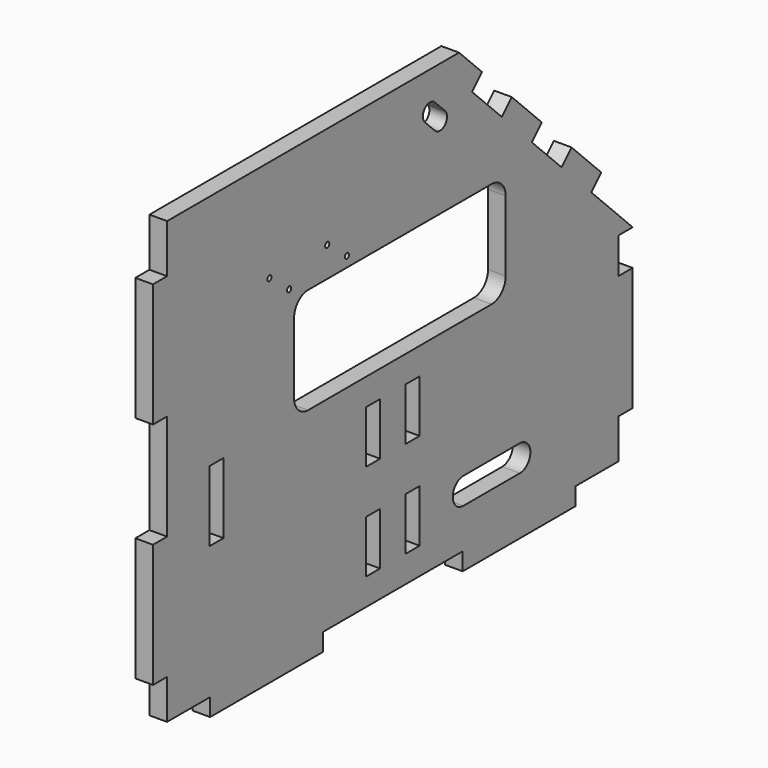
from build123d import *

# Parameters (mm, degrees)
SKETCH_W     = 10
SKETCH_H     = 40
SKETCH_H_2   = 29.8
PAD_DEPTH    = 10
SKETCH001_R  = 1.5
POCKET_DEPTH = 10.001


with BuildPart() as part:
    # Sketch → Pad (new body)
    with BuildSketch(Plane.YZ):
        Polygon((0, 0), (0, 22.5), (-10, 22.5), (-10, 92.5), (0, 92.5), (0, 152.5), (-10, 152.5), (-10, 222.5), (0, 222.5), (0, 250), (206.942136, 250), (223.276302, 233.665833), (216.205235, 226.594766), (237.277017, 205.522983), (244.348084, 212.594051), (265.561288, 191.380848), (258.49022, 184.30978), (279.562002, 163.237998), (286.63307, 170.309066), (307.704852, 149.237284), (300.633784, 142.166216), (330, 112.8), (320, 112.8), (320, 92.5), (330, 92.5), (330, 22.5), (320, 22.5), (320, 0), (289.5, 0), (289.5, -10), (209.5, -10), (209.5, 0), (110.5, 0), (110.5, -10), (30.5, -10), (30.5, 0), align=None)
        with Locations((35, 95.5)):
            Rectangle(SKETCH_W, SKETCH_H, mode=Mode.SUBTRACT)
        with Locations((146, 84.9)):
            Rectangle(SKETCH_W, SKETCH_H_2, mode=Mode.SUBTRACT)
        with Locations((146, 30.1)):
            Rectangle(SKETCH_W, SKETCH_H_2, mode=Mode.SUBTRACT)
        with Locations((174, 84.9)):
            Rectangle(SKETCH_W, SKETCH_H_2, mode=Mode.SUBTRACT)
        with Locations((174, 30.1)):
            Rectangle(SKETCH_W, SKETCH_H_2, mode=Mode.SUBTRACT)
        with BuildLine():
            Line((100, 175), (230, 175))
            ThreePointArc((240, 165), (237.071068, 172.071068), (230, 175))
            Line((240, 165), (240, 125))
            ThreePointArc((230, 115), (237.071068, 117.928932), (240, 125))
            Line((230, 115), (100, 115))
            ThreePointArc((90, 125), (92.928932, 117.928932), (100, 115))
            Line((90, 125), (90, 165))
            ThreePointArc((100, 175), (92.928932, 172.071068), (90, 165))
        make_face(mode=Mode.SUBTRACT)
        with BuildLine():
            ThreePointArc((189.86767, 232.075534), (182.796602, 232.075534), (182.796602, 225.004466))
            Line((182.796602, 225.004466), (189.86767, 217.933398))
            ThreePointArc((189.86767, 217.933398), (196.938737, 217.933398), (196.938737, 225.004466))
            Line((189.86767, 232.075534), (196.938737, 225.004466))
        make_face(mode=Mode.SUBTRACT)
        with BuildLine():
            ThreePointArc((210, 37.5), (202.5, 30), (210, 22.5))
            Line((210, 22.5), (250, 22.5))
            ThreePointArc((250, 22.5), (257.5, 30), (250, 37.5))
            Line((210, 37.5), (250, 37.5))
        make_face(mode=Mode.SUBTRACT)
    extrude(amount=PAD_DEPTH)

    # Sketch001 → Pocket (cut, through all)
    with BuildSketch(Plane.YZ):
        with Locations((72.5, 192)):
            Circle(SKETCH001_R)
        with Locations((86.5, 180.8)):
            Circle(SKETCH001_R)
        with Locations((113.5, 192)):
            Circle(SKETCH001_R)
        with Locations((127.5, 180.8)):
            Circle(SKETCH001_R)
    extrude(amount=POCKET_DEPTH, mode=Mode.SUBTRACT)


solid = part.part
